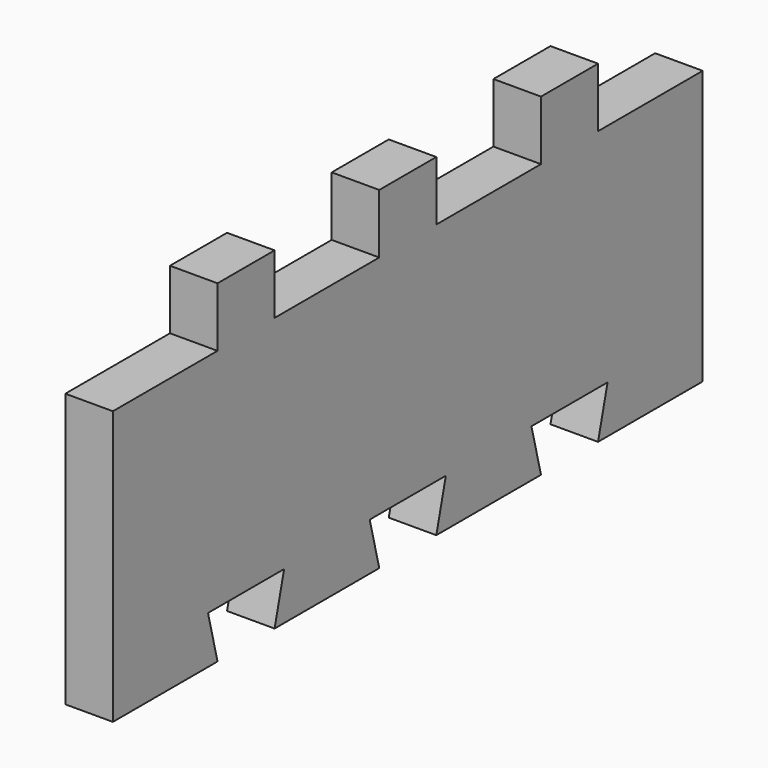
from build123d import *

# Parameters (mm, degrees)
F0_W     = 30
F0_H     = 25
F1_DEPTH = 20


with BuildPart() as f1:
    # F0 (on Right) → F1 (new body)
    with BuildSketch(Plane.YZ):
        Polygon((-62.467675, 54.630118), (-117.467675, 54.630118), (-117.467675, -60.369882), (-62.467675, -60.369882), (-67.467675, -40.369882), (-27.467675, -40.369882), (-32.467675, -60.369882), (22.532325, -60.369882), (17.532325, -40.369882), (57.532325, -40.369882), (52.532325, -60.369882), (107.532325, -60.369882), (102.532325, -40.369882), (142.532325, -40.369882), (137.532325, -60.369882), (192.532325, -60.369882), (192.532325, 54.630118), (137.532325, 54.630118), (107.532325, 54.630118), (52.532325, 54.630118), (22.532325, 54.630118), (-32.467675, 54.630118), align=None)
        with Locations((122.532325, 67.130118)):
            Rectangle(F0_W, F0_H)
        with Locations((37.532325, 67.130118)):
            Rectangle(F0_W, F0_H)
        with Locations((-47.467675, 67.130118)):
            Rectangle(F0_W, F0_H)
    extrude(amount=F1_DEPTH)


solid = f1.part
